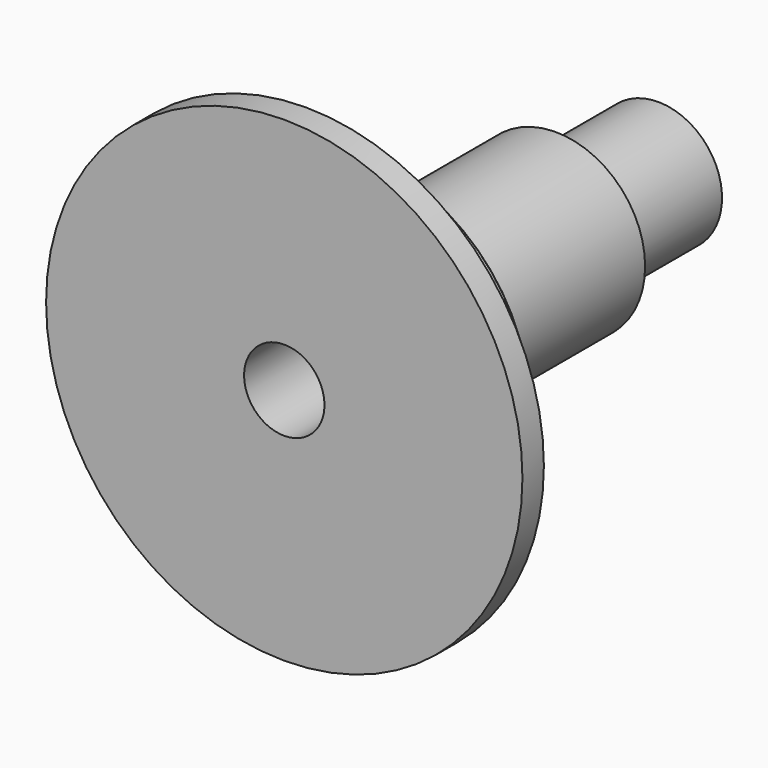
from build123d import *

# Parameters (mm, degrees)
F0_R      = 60
F1_DEPTH  = 160
F2_R      = 115
F3_DEPTH  = 50
F4_R      = 160
F5_DEPTH  = 18
F6_SIZE   = 5
F7_R      = 42.875
F8_DEPTH  = 86
F9_R      = 27
F10_DEPTH = 430


with BuildPart() as f1:
    # F0 (on Front) → F1 (new body)
    with BuildSketch(Plane.XZ):
        Circle(F0_R)
    extrude(amount=F1_DEPTH)

    # F2 (on face) → F3 (join)
    with BuildSketch(Plane.XZ.offset(160)):
        Circle(F2_R)
    extrude(amount=F3_DEPTH)

    # F4 (on face) → F5 (join)
    with BuildSketch(Plane.XZ.offset(210)):
        Circle(F4_R)
    extrude(amount=F5_DEPTH)

    # F6
    f6_edges = [f1.edges().sort_by_distance(p)[0] for p in [
        (-115, -160, 0),
    ]]
    chamfer(f6_edges, length=F6_SIZE)

    # F7 (on face) → F8 (join)
    with BuildSketch(Plane(origin=(0, 0, 0), x_dir=(-1, 0, 0), z_dir=(0, 1, 0))):
        Circle(F7_R)
    extrude(amount=F8_DEPTH)

    # F9 (on face) → F10 (cut)
    with BuildSketch(Plane(origin=(0, 86, 0), x_dir=(-1, 0, 0), z_dir=(0, 1, 0))):
        Circle(F9_R)
    extrude(amount=-F10_DEPTH, mode=Mode.SUBTRACT)


solid = f1.part
